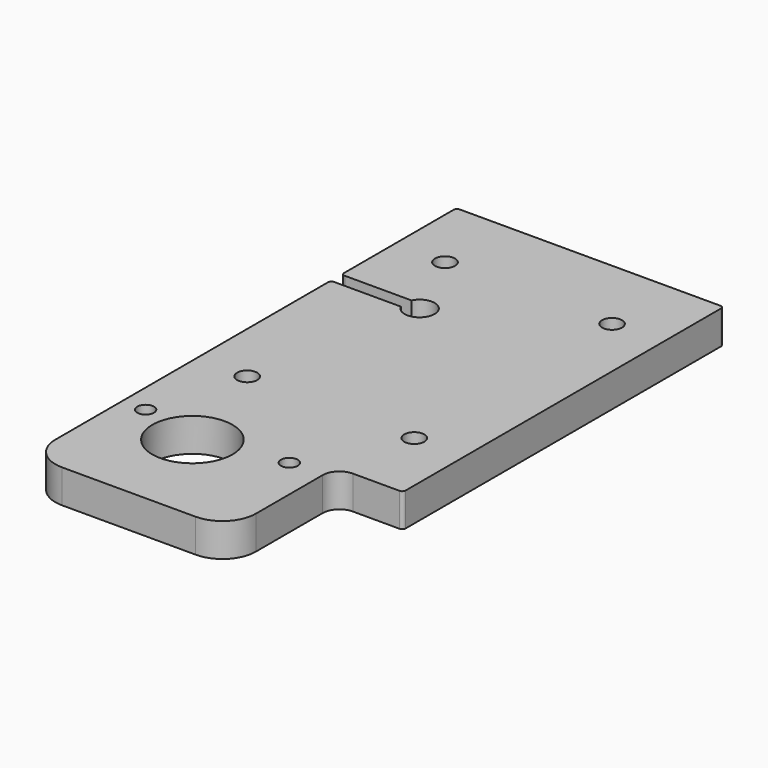
from build123d import *

# Parameters (mm, degrees)
SKETCH_R    = 12
SKETCH_R_2  = 3
SKETCH_R_3  = 2.5
PAD_DEPTH   = 10
FILLET_R    = 5
FILLET001_R = 1
FILLET002_R = 10


with BuildPart() as part:
    # Sketch → Pad (new body)
    with BuildSketch(Plane.XY):
        with BuildLine():
            ThreePointArc((-4.031129, -2), (4.5, 0), (-4.031129, 2))
            Line((-4.031129, 2), (-25, 2))
            Line((-25, 45), (-25, 2))
            Line((-25, 45), (55, 45))
            Line((55, 45), (55, -75))
            Line((35, -75), (55, -75))
            Line((35, -115), (35, -75))
            Line((-25, -115), (35, -115))
            Line((-25, -2), (-25, -115))
            Line((-4.031129, -2), (-25, -2))
        make_face()
        with Locations((0, -85)):
            Circle(SKETCH_R, mode=Mode.SUBTRACT)
        with Locations((-10, -52)):
            Circle(SKETCH_R_2, mode=Mode.SUBTRACT)
        with Locations((40, -52)):
            Circle(SKETCH_R_2, mode=Mode.SUBTRACT)
        with Locations((40, 22)):
            Circle(SKETCH_R_2, mode=Mode.SUBTRACT)
        with Locations((-10, 22)):
            Circle(SKETCH_R_2, mode=Mode.SUBTRACT)
        with Locations((25, -80)):
            Circle(SKETCH_R_3, mode=Mode.SUBTRACT)
        with Locations((-18, -80)):
            Circle(SKETCH_R_3, mode=Mode.SUBTRACT)
    extrude(amount=PAD_DEPTH)

    # Fillet
    fillet_edges = [part.edges().sort_by_distance(p)[0] for p in [
        (35, -75, 5),
    ]]
    fillet(fillet_edges, radius=FILLET_R)

    # Fillet001
    fillet001_edges = [part.edges().sort_by_distance(p)[0] for p in [
        (55, -75, 5),
        (55, 45, 5),
        (-25, 2, 5),
        (-25, -2, 5),
        (-25, 45, 5),
    ]]
    fillet(fillet001_edges, radius=FILLET001_R)

    # Fillet002
    fillet002_edges = [part.edges().sort_by_distance(p)[0] for p in [
        (-25, -115, 5),
        (35, -115, 5),
    ]]
    fillet(fillet002_edges, radius=FILLET002_R)


solid = part.part
